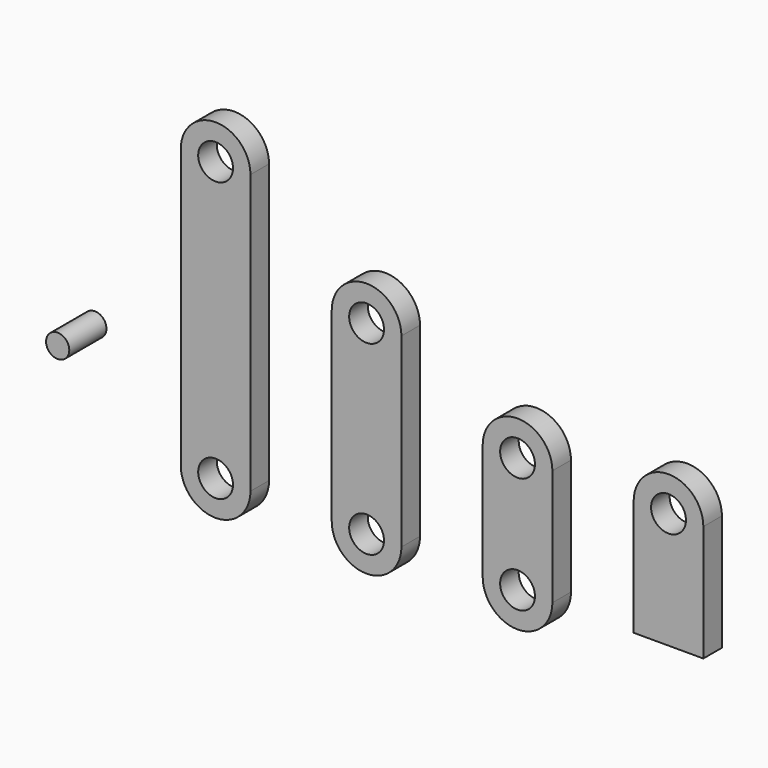
from build123d import *

# Parameters (mm, degrees)
F1_R      = 7.5
F2_DEPTH  = 10
F3_R      = 7.5
F4_DEPTH  = 10
F5_R      = 7.5
F6_DEPTH  = 10
F7_R      = 7.5
F8_DEPTH  = 10
F9_R      = 5
F10_DEPTH = 20


with BuildPart() as f2:
    # F1 (on Front) → F2 (new body)
    with BuildSketch(Plane.XZ):
        with BuildLine():
            Line((0, 50), (0, 0))
            Line((0, 0), (30, 0))
            Line((30, 0), (30, 50))
            ThreePointArc((30, 50), (15, 65), (0, 50))
        make_face()
        with Locations((15, 50)):
            Circle(F1_R, mode=Mode.SUBTRACT)
    extrude(amount=F2_DEPTH)


with BuildPart() as f4:
    # F3 (on Front) → F4 (new body)
    with BuildSketch(Plane.XZ):
        with BuildLine():
            Line((-65, 50), (-65, 0))
            ThreePointArc((-65, 0), (-50, -15), (-35, 0))
            Line((-35, 0), (-35, 50))
            ThreePointArc((-35, 50), (-50, 65), (-65, 50))
        make_face()
        with Locations((-50, 0)):
            Circle(F3_R, mode=Mode.SUBTRACT)
        with Locations((-50, 50)):
            Circle(F3_R, mode=Mode.SUBTRACT)
    extrude(amount=F4_DEPTH)


with BuildPart() as f6:
    # F5 (on Front) → F6 (new body)
    with BuildSketch(Plane.XZ):
        with BuildLine():
            Line((-130, 80), (-130, 0))
            ThreePointArc((-130, 0), (-115, -15), (-100, 0))
            Line((-100, 0), (-100, 80))
            ThreePointArc((-100, 80), (-115, 95), (-130, 80))
        make_face()
        with Locations((-115, 0)):
            Circle(F5_R, mode=Mode.SUBTRACT)
        with Locations((-115, 80)):
            Circle(F5_R, mode=Mode.SUBTRACT)
    extrude(amount=F6_DEPTH)


with BuildPart() as f8:
    # F7 (on Front) → F8 (new body)
    with BuildSketch(Plane.XZ):
        with BuildLine():
            Line((-195, 120), (-195, 0))
            ThreePointArc((-195, 0), (-180, -15), (-165, 0))
            Line((-165, 0), (-165, 120))
            ThreePointArc((-165, 120), (-180, 135), (-195, 120))
        make_face()
        with Locations((-180, 0)):
            Circle(F7_R, mode=Mode.SUBTRACT)
        with Locations((-180, 120)):
            Circle(F7_R, mode=Mode.SUBTRACT)
    extrude(amount=F8_DEPTH)


with BuildPart() as f10:
    # F9 (on Front) → F10 (new body)
    with BuildSketch(Plane.XZ):
        with Locations((-240, 34.7799435258)):
            Circle(F9_R)
    extrude(amount=F10_DEPTH)


solid = Compound([f2.part, f4.part, f6.part, f8.part, f10.part])
